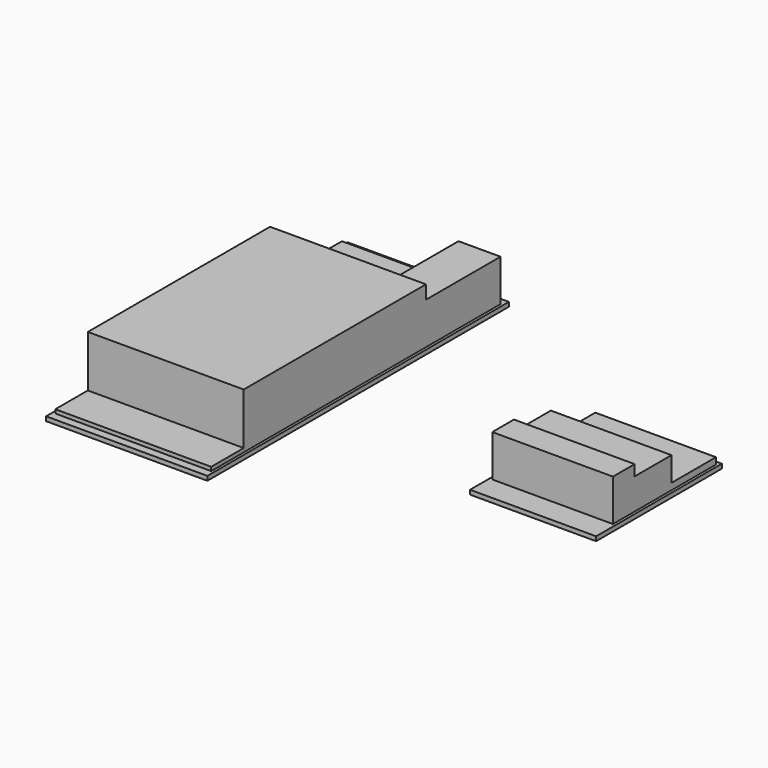
from build123d import *

# Parameters (mm, degrees)
F0_W     = 1
F0_H     = 2.6073388457
F0_H_2   = 3
F0_W_2   = 57.5
F0_H_3   = 84
F0_H_4   = 15
F0_H_5   = 34.3926611543
F1_DEPTH = 1.6
F0_H_6   = 1.5
F0_W_3   = 44.5
F0_H_7   = 9
F0_H_8   = 20.5
F0_H_9   = 17
F0_H_10  = 10
F0_W_4   = 42
F2_DEPTH = 3
F0_W_5   = 15.5
F3_DEPTH = 17
F4_DEPTH = 22
F5_DEPTH = 4
F6_DEPTH = 13


with BuildPart() as f1:
    # F0 (on Top) → F1 (new body)
    with BuildSketch(Plane.XY):
        with Locations((-45.5788407922, 68.1963305771)):
            Rectangle(F0_W, F0_H)
        Polygon((-61.5788407922, 66.8926611543), (-46.0788407922, 66.8926611543), (-46.0788407922, 69.5), (-103.5788407922, 69.5), (-103.5788407922, 66.8926611543), align=None)
        with Locations((-104.0788407922, 68.1963305771)):
            Rectangle(F0_W, F0_H)
        with Locations((-45.5788407922, -68)):
            Rectangle(F0_W, F0_H_2)
        with Locations((-74.8288407922, -68)):
            Rectangle(F0_W_2, F0_H_2)
        with Locations((-104.0788407922, -68)):
            Rectangle(F0_W, F0_H_2)
        with Locations((-104.0788407922, -9.5)):
            Rectangle(F0_W, F0_H_3)
        with Locations((-104.0788407922, -59)):
            Rectangle(F0_W, F0_H_4)
        with Locations((-45.5788407922, -59)):
            Rectangle(F0_W, F0_H_4)
        with Locations((-45.5788407922, -9.5)):
            Rectangle(F0_W, F0_H_3)
        with Locations((-45.5788407922, 49.6963305771)):
            Rectangle(F0_W, F0_H_5)
        Polygon((-61.5788407922, 66.8926611543), (-46.0788407922, 66.8926611543), (-46.0788407922, 69.5), (-103.5788407922, 69.5), (-103.5788407922, 66.8926611543), align=None)
    extrude(amount=F1_DEPTH)

    # F0 (on Top) → F2 (join)
    with BuildSketch(Plane.XY):
        with Locations((-74.8288407922, -59)):
            Rectangle(F0_W_2, F0_H_4)
        with Locations((-104.0788407922, 49.6963305771)):
            Rectangle(F0_W, F0_H_5)
        with Locations((-82.5788407922, 49.6963305771)):
            Rectangle(F0_W_4, F0_H_5)
    extrude(amount=F2_DEPTH)

    # F0 (on Top) → F3 (join)
    with BuildSketch(Plane.XY):
        with Locations((-53.8288407922, 49.6963305771)):
            Rectangle(F0_W_5, F0_H_5)
    extrude(amount=F3_DEPTH)

    # F0 (on Top) → F4 (join)
    with BuildSketch(Plane.XY):
        Polygon((-103.5788407922, -51.5), (-46.0788407922, -51.5), (-46.0788407922, 32.5), (-61.5788407922, 32.5), (-103.5788407922, 32.5), align=None)
    extrude(amount=F4_DEPTH)


with BuildPart() as f1b:
    # F0 (on Top) → F1, piece 2 (new body)
    with BuildSketch(Plane.XY):
        with Locations((65.3926380873, 28.25)):
            Rectangle(F0_W, F0_H_6)
        with Locations((42.6426380873, 28.25)):
            Rectangle(F0_W_3, F0_H_6)
        with Locations((19.8926380873, 28.25)):
            Rectangle(F0_W, F0_H_6)
        with Locations((65.3926380873, -24.5)):
            Rectangle(F0_W, F0_H_7)
        with Locations((42.6426380873, -24.5)):
            Rectangle(F0_W_3, F0_H_7)
        with Locations((19.8926380873, -24.5)):
            Rectangle(F0_W, F0_H_7)
        with Locations((19.8926380873, 17.25)):
            Rectangle(F0_W, F0_H_8)
        with Locations((19.8926380873, -1.5)):
            Rectangle(F0_W, F0_H_9)
        with Locations((19.8926380873, -15)):
            Rectangle(F0_W, F0_H_10)
        with Locations((65.3926380873, -15)):
            Rectangle(F0_W, F0_H_10)
        with Locations((65.3926380873, -1.5)):
            Rectangle(F0_W, F0_H_9)
        with Locations((65.3926380873, 17.25)):
            Rectangle(F0_W, F0_H_8)
    extrude(amount=F1_DEPTH)

    # F0 (on Top) → F3, piece 2 (join)
    with BuildSketch(Plane.XY):
        with Locations((42.6426380873, -15)):
            Rectangle(F0_W_3, F0_H_10)
    extrude(amount=F3_DEPTH)

    # F0 (on Top) → F5 (join)
    with BuildSketch(Plane.XY):
        with Locations((42.6426380873, 17.25)):
            Rectangle(F0_W_3, F0_H_8)
    extrude(amount=F5_DEPTH)

    # F0 (on Top) → F6 (join)
    with BuildSketch(Plane.XY):
        with Locations((42.6426380873, -1.5)):
            Rectangle(F0_W_3, F0_H_9)
    extrude(amount=F6_DEPTH)


solid = Compound([f1.part, f1b.part])
